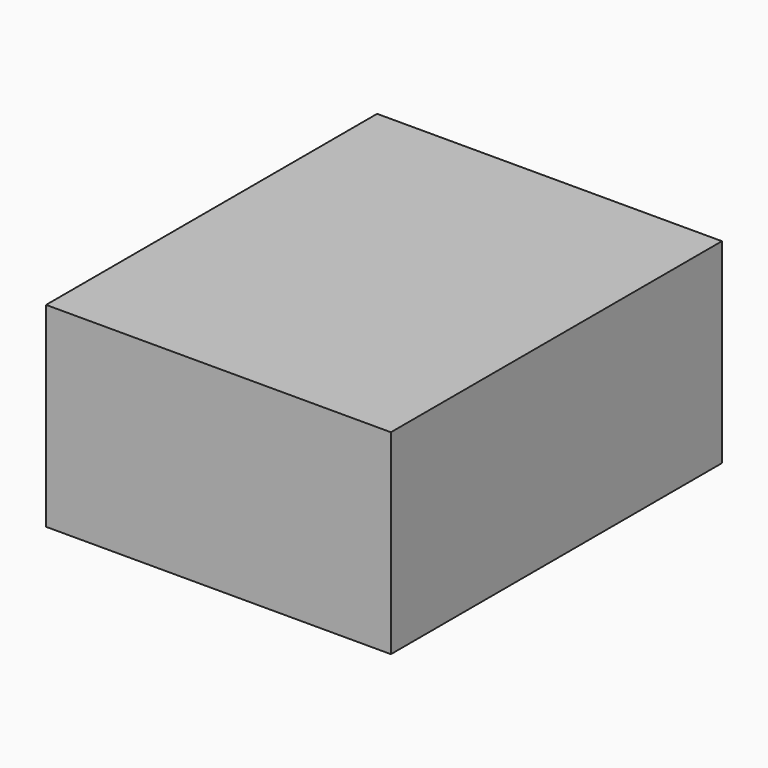
from build123d import *

# Parameters (mm, degrees)
F0_R      = 30
F1_DEPTH  = 190
F3_DEPTH  = 25
F4_R      = 40
F5_DEPTH  = 35
F6_W      = 170
F6_H      = 170
F6_R      = 2
F7_DEPTH  = 2
F9_W      = 150
F9_H      = 85
F10_DEPTH = 180


with BuildPart() as f1:
    # F0 (on Front) → F1 (new body)
    with BuildSketch(Plane.XZ):
        Circle(F0_R)
    extrude(amount=F1_DEPTH)

    # F2 (on face) → F3 (join)
    with BuildSketch(Plane(origin=(0, 0, 0), x_dir=(-1, 0, 0), z_dir=(0, 1, 0))):
        with BuildLine():
            Line((50, 40), (0, 40))
            ThreePointArc((0, 40), (-40, 0), (0, -40))
            Line((0, -40), (50, -40))
            Line((50, -40), (50, 40))
        make_face()
    extrude(amount=-F3_DEPTH)

    # F4 (on face) → F5 (join)
    with BuildSketch(Plane.XZ.offset(25)):
        Circle(F4_R)
    extrude(amount=F5_DEPTH)


with BuildPart() as f7:
    # F6 (on Front) → F7 (new body)
    with BuildSketch(Plane.XZ):
        with Locations((85, 85)):
            Rectangle(F6_W, F6_H)
        with Locations((6.35, 4.9)):
            Circle(F6_R, mode=Mode.SUBTRACT)
        with Locations((163.83, 4.9)):
            Circle(F6_R, mode=Mode.SUBTRACT)
        with Locations((6.35, 159.84)):
            Circle(F6_R, mode=Mode.SUBTRACT)
        with Locations((163.83, 136.98)):
            Circle(F6_R, mode=Mode.SUBTRACT)
    extrude(amount=F7_DEPTH)


with BuildPart() as f10:
    # F9 (on Front) → F10 (new body)
    with BuildSketch(Plane.XZ):
        with Locations((75, 42.5)):
            Rectangle(F9_W, F9_H)
    extrude(amount=F10_DEPTH)


solid = f10.part
